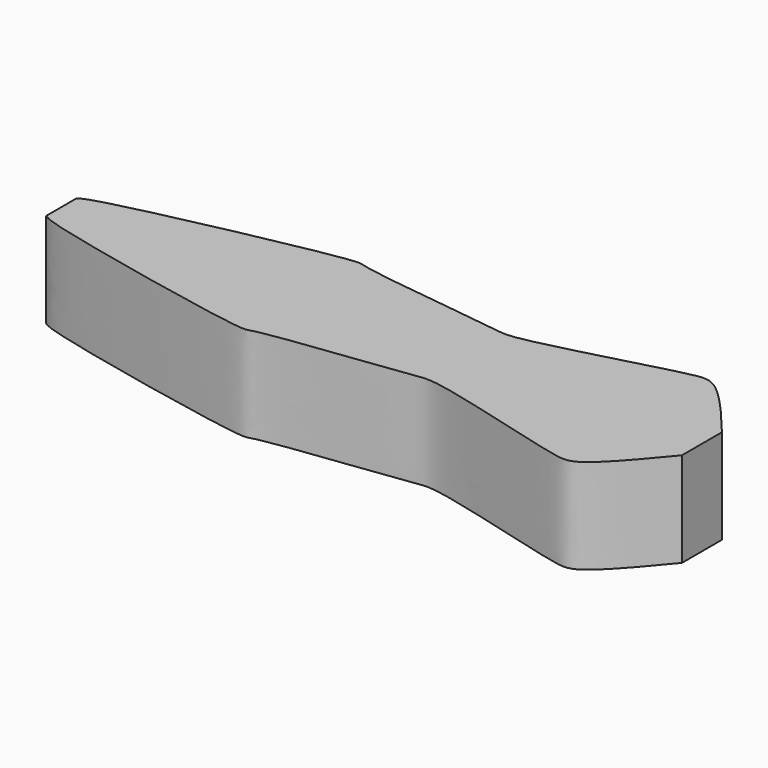
from build123d import *

# Parameters (mm, degrees)
F1_DEPTH = 25.4


with BuildPart() as f1:
    # F0 (on Top) → F1 (new body)
    with BuildSketch(Plane.XY):
        with BuildLine():
            add(Edge.make_bspline(
                [(-77.5651782751, 5.1151281223), (-76.7152022931, 5.6188250871), (-73.0592909497, 7.7853233015), (-12.49739247, 20.5682129335), (-12.0338732882, 18.0808716912), (27.5907069199, 13.8435911931), (32.8188369344, 12.029923943), (71.7590580126, 23.3104338393), (79.6738768464, 24.171694994), (88.6019606535, 13.40946349), (94.1725447774, 6.6944821738)],
                knots=[0, 0, 0, 0, 0.0670277205, 0.2882992096, 0.3476450564, 0.5196637571, 0.6086339894, 0.7852800243, 0.8660277263, 1, 1, 1, 1], degree=3))
            Line((-77.5651782751, 5.1151281223), (-77.5651782751, -5.1151281223))
            add(Edge.make_bspline(
                [(-77.5651782751, -5.1151281223), (-76.7152022931, -5.6188250871), (-73.0592909497, -7.7853233015), (-12.49739247, -20.5682129335), (-12.0338732882, -18.0808716912), (27.5907069199, -13.8435911931), (32.8188369344, -12.029923943), (71.7590580126, -23.3104338393), (79.6738768464, -24.171694994), (88.6019606535, -13.40946349), (94.1725447774, -6.6944821738)],
                knots=[0, 0, 0, 0, 0.0670277205, 0.2882992096, 0.3476450564, 0.5196637571, 0.6086339894, 0.7852800243, 0.8660277263, 1, 1, 1, 1], degree=3))
            Line((94.1725447774, -6.6944821738), (94.1725447774, 6.6944821738))
        make_face()
    extrude(amount=F1_DEPTH)


solid = f1.part
